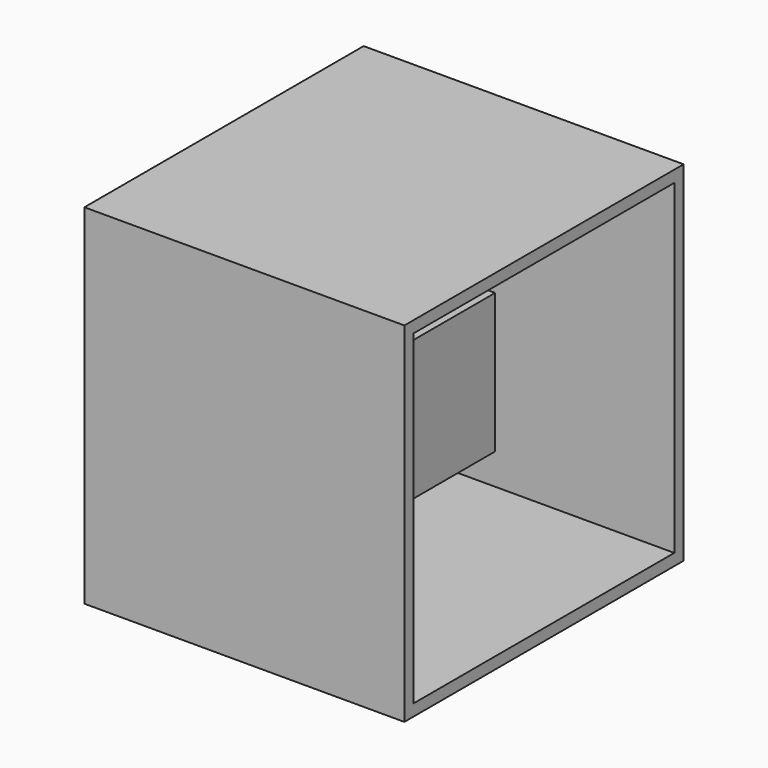
from build123d import *

# Parameters (mm, degrees)
F0_W     = 76.2
F0_H     = 76.2
F1_DEPTH = 69.85
F2_T     = -25.4
F3_T     = -2.54


with BuildPart() as f1:
    # F0 (on Right) → F1 (new body)
    with BuildSketch(Plane.YZ):
        Rectangle(F0_W, F0_H)
    extrude(amount=F1_DEPTH)

    # F2
    f2_openings = [f1.faces().sort_by_distance(p)[0] for p in [
        (0, 0, 0),
    ]]
    offset(amount=F2_T, openings=f2_openings)

    # F3
    f3_openings = [f1.faces().sort_by_distance(p)[0] for p in [
        (69.85, 0, 0),
    ]]
    offset(amount=F3_T, openings=f3_openings, kind=Kind.INTERSECTION)


solid = f1.part
